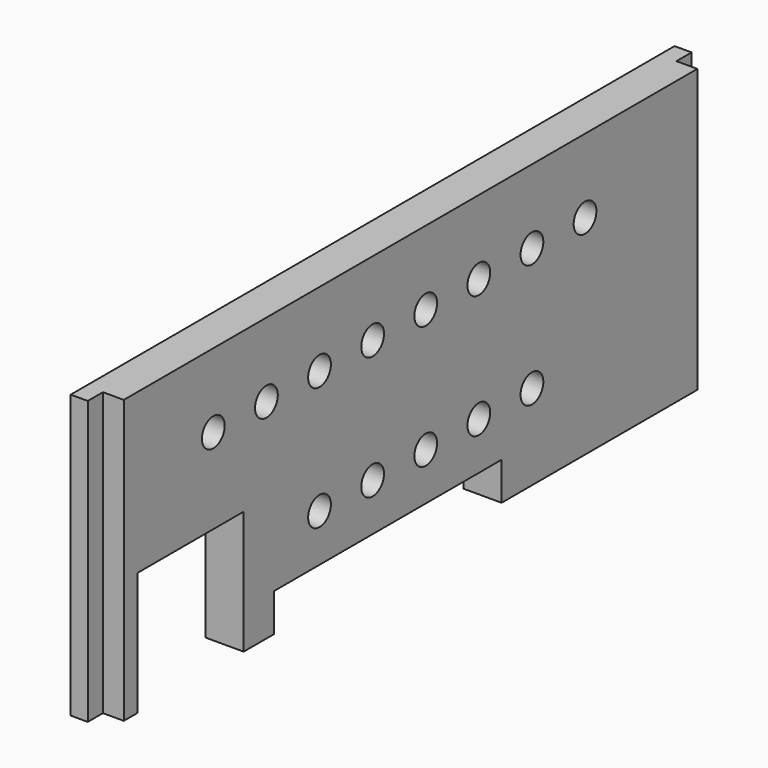
from build123d import *

# Parameters (mm, degrees)
CYLINDER007_R     = 1.5
CYLINDER007_DEPTH = 10
ARRAY014_Y_COUNT  = 8
ARRAY014_Y_PITCH  = 7
BOX052_W          = 10
BOX052_H          = 14
BOX052_DEPTH      = 13
BOX053_W          = 10
BOX053_H          = 30
BOX053_DEPTH      = 4
CYLINDER006_R     = 1.5
CYLINDER006_DEPTH = 10
ARRAY013_Y_COUNT  = 5
ARRAY013_Y_PITCH  = 7
BOX051_W          = 10
BOX051_H          = 10
BOX051_DEPTH      = 50
BOX050_W          = 10
BOX050_H          = 10
BOX050_DEPTH      = 50
BOX049_W          = 10
BOX049_H          = 10
BOX049_DEPTH      = 50
BOX048_W          = 10
BOX048_H          = 10
BOX048_DEPTH      = 50
BOX046_W          = 2
BOX046_H          = 80
BOX046_DEPTH      = 29.8
BOX047_W          = 4
BOX047_H          = 76
BOX047_DEPTH      = 29.8


with BuildPart() as array014:
    # Cylinder007 → Cylinder007 (new body)
    with BuildSketch(Plane(origin=(110, 25, 13), x_dir=(0, 0, -1), z_dir=(1, 0, 0))):
        Circle(CYLINDER007_R)
    extrude(amount=CYLINDER007_DEPTH)

    # Array014 Y: Array014 ×8


with BuildPart() as array014_1:
    add(array014.part)
    with Locations(*[(0, i * ARRAY014_Y_PITCH, 0) for i in range(1, ARRAY014_Y_COUNT)]):
        add(array014.part)


with BuildPart() as array014_2:
    # Array014 placement: moved
    add(array014_1.part.moved(Location((0, -10, 13))))


with BuildPart() as cube012:
    # Box052 → Box052 (new body)
    with BuildSketch(Plane(origin=(111, 5, 4), x_dir=(1, 0, 0), z_dir=(0, 0, 1))):
        with Locations((5, 7)):
            Rectangle(BOX052_W, BOX052_H)
    extrude(amount=BOX052_DEPTH)


with BuildPart() as cube013:
    # Box053 → Box053 (new body)
    with BuildSketch(Plane(origin=(111, 23, 4), x_dir=(1, 0, 0), z_dir=(0, 0, 1))):
        with Locations((5, 15)):
            Rectangle(BOX053_W, BOX053_H)
    extrude(amount=BOX053_DEPTH)


with BuildPart() as fusion008032:
    # Cylinder006 → Cylinder006 (new body)
    with BuildSketch(Plane(origin=(110, 25, 13), x_dir=(0, 0, -1), z_dir=(1, 0, 0))):
        Circle(CYLINDER006_R)
    extrude(amount=CYLINDER006_DEPTH)

    # Array013 Y: Fusion008032 ×5


with BuildPart() as fusion008032_1:
    add(fusion008032.part)
    with Locations(*[(0, i * ARRAY013_Y_PITCH, 0) for i in range(1, ARRAY013_Y_COUNT)]):
        add(fusion008032.part)


with BuildPart() as fusion008032_2:
    # Array013 placement: moved
    add(fusion008032_1.part.moved(Location((0, 4, 0))))

    # Fusion008032: union Array014, Cube012, Cube013
    add(array014_2.part)
    add(cube012.part)
    add(cube013.part)


with BuildPart() as obj1:
    # Box051 → Box051 (new body)
    with BuildSketch(Plane(origin=(110, 80.8, 0), x_dir=(1, 0, 0), z_dir=(0, 0, 1))):
        with Locations((5, 5)):
            Rectangle(BOX051_W, BOX051_H)
    extrude(amount=BOX051_DEPTH)


with BuildPart() as obj2:
    # Box050 → Box050 (new body)
    with BuildSketch(Plane(origin=(109, -8.8, 0), x_dir=(1, 0, 0), z_dir=(0, 0, 1))):
        with Locations((5, 5)):
            Rectangle(BOX050_W, BOX050_H)
    extrude(amount=BOX050_DEPTH)


with BuildPart() as obj3:
    # Box049 → Box049 (new body)
    with BuildSketch(Plane(origin=(114.8, 78.8, 0), x_dir=(1, 0, 0), z_dir=(0, 0, 1))):
        with Locations((5, 5)):
            Rectangle(BOX049_W, BOX049_H)
    extrude(amount=BOX049_DEPTH)


with BuildPart() as obj4:
    # Box048 → Box048 (new body)
    with BuildSketch(Plane(origin=(114.8, -6.8, 0), x_dir=(1, 0, 0), z_dir=(0, 0, 1))):
        with Locations((5, 5)):
            Rectangle(BOX048_W, BOX048_H)
    extrude(amount=BOX048_DEPTH)


with BuildPart() as obj5:
    # Box046 → Box046 (new body)
    with BuildSketch(Plane(origin=(113, 1, 23), x_dir=(1, 0, 0), z_dir=(0, 0, 1))):
        with Locations((1, 40)):
            Rectangle(BOX046_W, BOX046_H)
    extrude(amount=BOX046_DEPTH)


with BuildPart() as frontcover:
    # Box047 → Box047 (new body)
    with BuildSketch(Plane(origin=(113, 3, 23), x_dir=(1, 0, 0), z_dir=(0, 0, 1))):
        with Locations((2, 38)):
            Rectangle(BOX047_W, BOX047_H)
    extrude(amount=BOX047_DEPTH)

    # Fusion008031: union obj5
    add(obj5.part)


with BuildPart() as frontcover_1:
    # Fusion008031 placement: moved
    add(frontcover.part.moved(Location((0, 0, -19))))

    # Cut047: cut obj4
    add(obj4.part, mode=Mode.SUBTRACT)

    # Cut048: cut obj3
    add(obj3.part, mode=Mode.SUBTRACT)

    # Cut049: cut obj2
    add(obj2.part, mode=Mode.SUBTRACT)

    # Cut050: cut obj1
    add(obj1.part, mode=Mode.SUBTRACT)

    # Cut051: cut Fusion008032
    add(fusion008032_2.part, mode=Mode.SUBTRACT)


solid = frontcover_1.part
